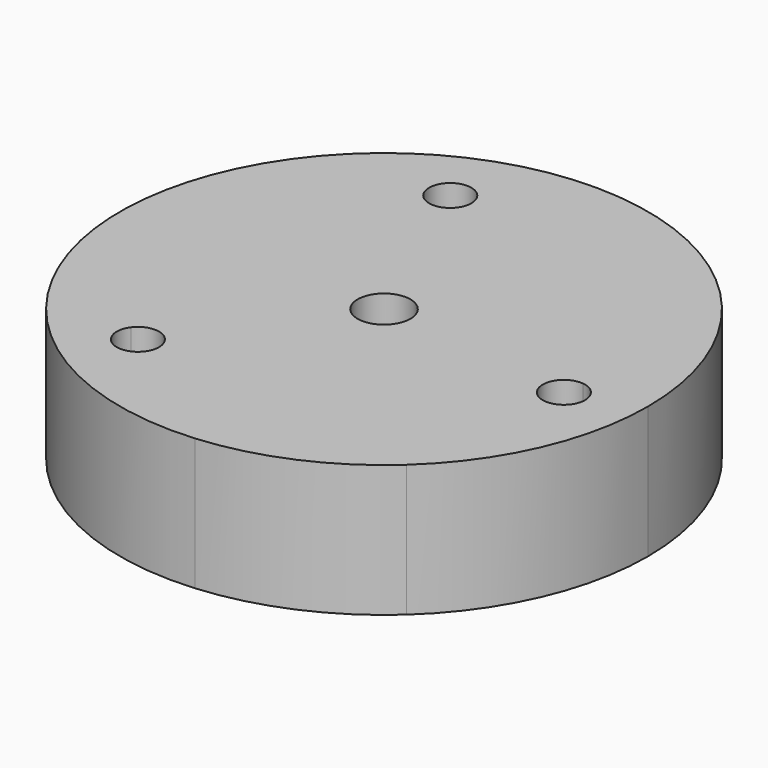
from build123d import *

# Parameters (mm, degrees)
F1_DEPTH = 25
F2_R     = 5
F3_DEPTH = 40.9


with BuildPart() as f1:
    # F0 (on Top) → F1 (new body)
    with BuildSketch(Plane.XY):
        with BuildLine():
            Line((37.8946910522, -0.2353922235), (41.1194441676, 28.4462881822))
            ThreePointArc((41.1194441676, 28.4462881822), (29.6814566909, 40.2369373674), (15.0396888036, 47.6844603691))
            Line((15.0396888036, 47.6844603691), (-11.4117516088, 36.1363382852))
            ThreePointArc((-11.4117516088, 36.1363382852), (-11.1620443795, 35.3533725274), (-11.0776207447, 34.5358997583))
            ThreePointArc((-11.0776207447, 34.5358997583), (-14.2601479757, 30.6203233931), (-18.7434898807, 32.9354612315))
            Line((-18.7434898807, 32.9354612315), (-45.194930293, 21.3873391476))
            ThreePointArc((-45.194930293, 21.3873391476), (-49.6869382761, 5.5864268319), (-48.8157984472, -10.8174776157))
            Line((-48.8157984472, -10.8174776157), (-25.5891111503, -27.9510359374))
            ThreePointArc((-25.5891111503, -27.9510359374), (-21.1203201632, -26.5258274855), (-18.3701561609, -30.3255524727))
            ThreePointArc((-18.3701561609, -30.3255524727), (-18.5704311737, -31.5753884704), (-19.1512011715, -32.700069008))
            Line((-19.1512011715, -32.700069008), (4.0754861253, -49.8336273298))
            ThreePointArc((4.0754861253, -49.8336273298), (20.0054815852, -45.8233641993), (33.7761096436, -36.8669827534))
            Line((33.7761096436, -36.8669827534), (37.0008627591, -8.1853023477))
            ThreePointArc((37.0008627591, -8.1853023477), (33.4728218435, -3.7634331391), (37.8946910522, -0.2353922235))
        make_face()
        with BuildLine():
            Line((-11.4117516088, 36.1363382852), (15.0396888036, 47.6844603691))
            ThreePointArc((15.0396888036, 47.6844603691), (-20.0054815852, 45.8233641993), (-45.194930293, 21.3873391476))
            Line((-45.194930293, 21.3873391476), (-18.7434898807, 32.9354612315))
            ThreePointArc((-18.7434898807, 32.9354612315), (-16.6780592715, 38.2017688943), (-11.4117516088, 36.1363382852))
        make_face()
        with BuildLine():
            ThreePointArc((33.7761096436, -36.8669827534), (45.7646450996, -20.1394453476), (50, 0))
            ThreePointArc((50, 0), (47.7282526832, 14.9001307313), (41.1194441676, 28.4462881822))
            Line((41.1194441676, 28.4462881822), (37.8946910522, -0.2353922235))
            ThreePointArc((37.8946910522, -0.2353922235), (40.4300291239, -1.5446069181), (41.4477769056, -4.2103472856))
            ThreePointArc((41.4477769056, -4.2103472856), (40.1135172731, -7.1925995039), (37.0008627591, -8.1853023477))
            Line((37.0008627591, -8.1853023477), (33.7761096436, -36.8669827534))
        make_face()
        with BuildLine():
            ThreePointArc((-48.8157984472, -10.8174776157), (-29.6814566909, -40.2369373674), (4.0754861253, -49.8336273298))
            Line((4.0754861253, -49.8336273298), (-19.1512011715, -32.700069008))
            ThreePointArc((-19.1512011715, -32.700069008), (-24.7446726962, -33.5445074621), (-25.5891111503, -27.9510359374))
            Line((-25.5891111503, -27.9510359374), (-48.8157984472, -10.8174776157))
        make_face()
    extrude(amount=-F1_DEPTH)

    # F2 (on face) → F3 (cut)
    with BuildSketch(Plane.XY):
        Circle(F2_R)
    extrude(amount=-F3_DEPTH, mode=Mode.SUBTRACT)


solid = f1.part
